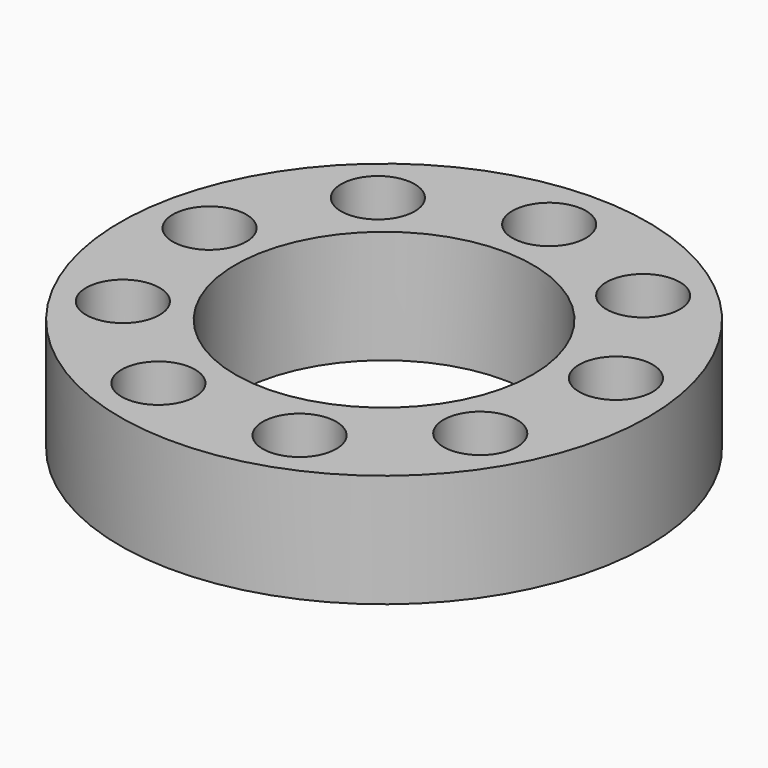
from build123d import *

# Parameters (mm, degrees)
F0_R     = 22.225
F0_R_2   = 3.096937
F0_R_3   = 12.5222
F1_DEPTH = 9.525


with BuildPart() as f1:
    # F0 (on Top) → F1 (new body)
    with BuildSketch(Plane.XY):
        Circle(F0_R)
        with Locations((-5.942121, -16.325844)):
            Circle(F0_R_2, mode=Mode.SUBTRACT)
        with Locations((-15.045979, -8.6868)):
            Circle(F0_R_2, mode=Mode.SUBTRACT)
        with Locations((5.942121, -16.325844)):
            Circle(F0_R_2, mode=Mode.SUBTRACT)
        with Locations((15.045979, -8.6868)):
            Circle(F0_R_2, mode=Mode.SUBTRACT)
        with Locations((-17.109656, 3.016894)):
            Circle(F0_R_2, mode=Mode.SUBTRACT)
        with Locations((-11.167535, 13.30895)):
            Circle(F0_R_2, mode=Mode.SUBTRACT)
        Circle(F0_R_3, mode=Mode.SUBTRACT)
        with Locations((17.109656, 3.016894)):
            Circle(F0_R_2, mode=Mode.SUBTRACT)
        with Locations((0, 17.3736)):
            Circle(F0_R_2, mode=Mode.SUBTRACT)
        with Locations((11.167535, 13.30895)):
            Circle(F0_R_2, mode=Mode.SUBTRACT)
    extrude(amount=F1_DEPTH)


solid = f1.part
